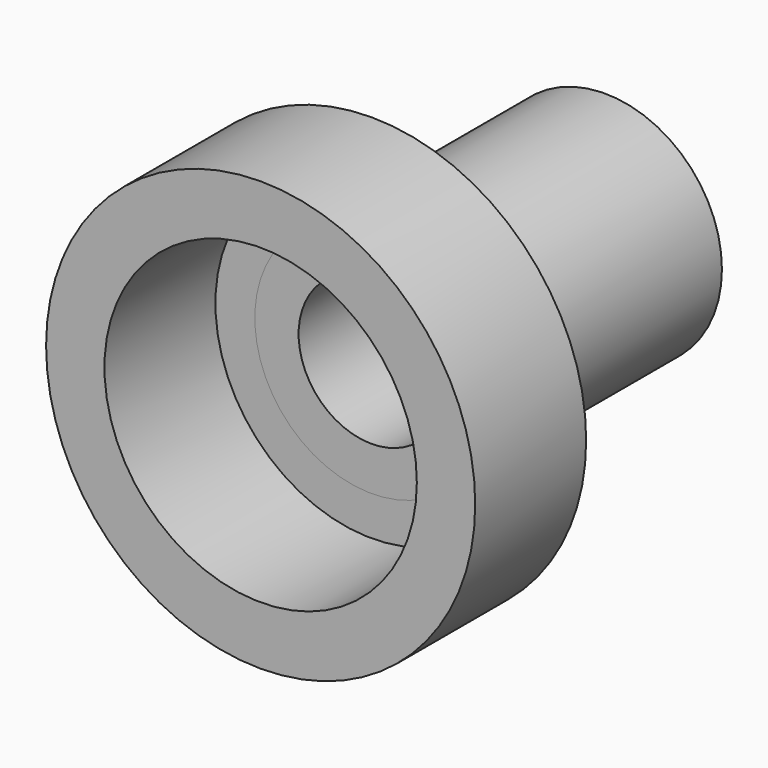
from build123d import *

# Parameters (mm, degrees)
F0_R     = 4
F0_R_2   = 2.5
F1_DEPTH = 10
F2_R     = 7.35
F2_R_2   = 5.35
F3_DEPTH = 4.75
F2_R_3   = 4
F4_DEPTH = 1


with BuildPart() as f1:
    # F0 (on Front) → F1 (new body)
    with BuildSketch(Plane.XZ):
        Circle(F0_R)
        Circle(F0_R_2, mode=Mode.SUBTRACT)
    extrude(amount=F1_DEPTH)


with BuildPart() as f3:
    # F2 (on face) → F3 (new body)
    with BuildSketch(Plane.XZ.offset(10)):
        Circle(F2_R)
        Circle(F2_R_2, mode=Mode.SUBTRACT)
    extrude(amount=F3_DEPTH)


with BuildPart() as f4:
    # F2 (on face) → F4 (new body)
    with BuildSketch(Plane.XZ.offset(10)):
        Circle(F2_R_2)
        Circle(F2_R_3, mode=Mode.SUBTRACT)
    extrude(amount=-F4_DEPTH)


solid = Compound([f1.part, f3.part, f4.part])
